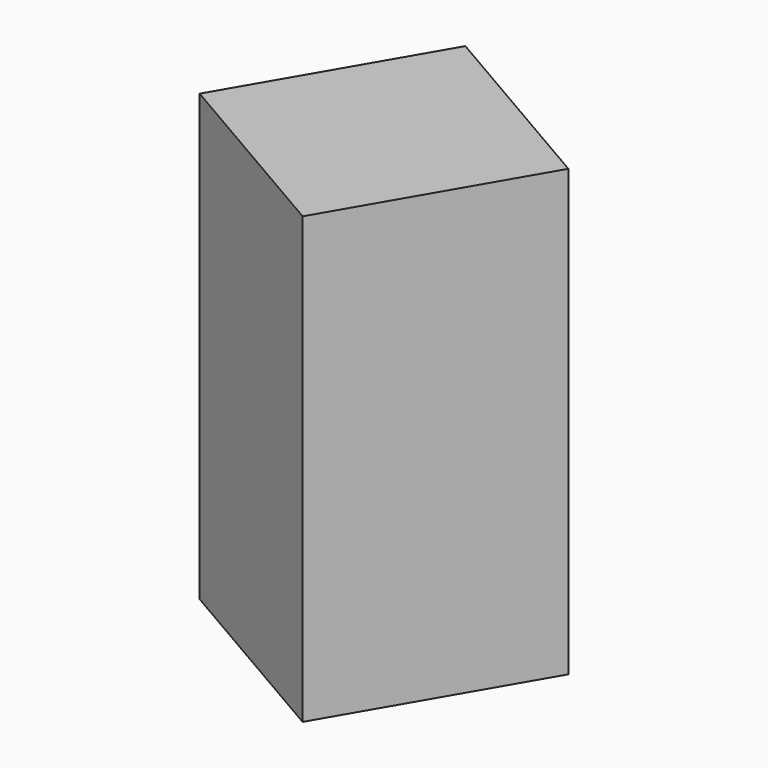
from build123d import *

# Parameters (mm, degrees)
F1_DEPTH = 100
F2_DEPTH = 8.961
F3_DEPTH = 8.961
F4_DEPTH = 8.961


with BuildPart() as f1:
    # F0 (on Top) → F1 (new body)
    with BuildSketch(Plane.XY):
        Polygon((-10.6803802773, 40.3006346896), (-40.3006346896, -10.6803802773), (10.6803802773, -40.3006346896), (40.3006346896, 10.6803802773), align=None)
    extrude(amount=F1_DEPTH)

    # F2 (add): a face of the model
    f2_faces = [f1.faces().sort_by_distance(p)[0] for p in [
        (-25.4905074835, 14.8101272061, 50),
    ]]
    extrude(f2_faces, amount=-F2_DEPTH)

    # F3 (cut): a face of the model
    f3_faces = [f1.faces().sort_by_distance(p)[0] for p in [
        (-25.4905074835, 14.8101272061, 50),
    ]]
    extrude(f3_faces, amount=-F3_DEPTH, mode=Mode.SUBTRACT)

    # F4 (cut): a face of the model
    f4_faces = [f1.faces().sort_by_distance(p)[0] for p in [
        (-10.9360468067, -27.7413698313, 50),
    ]]
    extrude(f4_faces, amount=-F4_DEPTH, mode=Mode.SUBTRACT)


solid = f1.part
